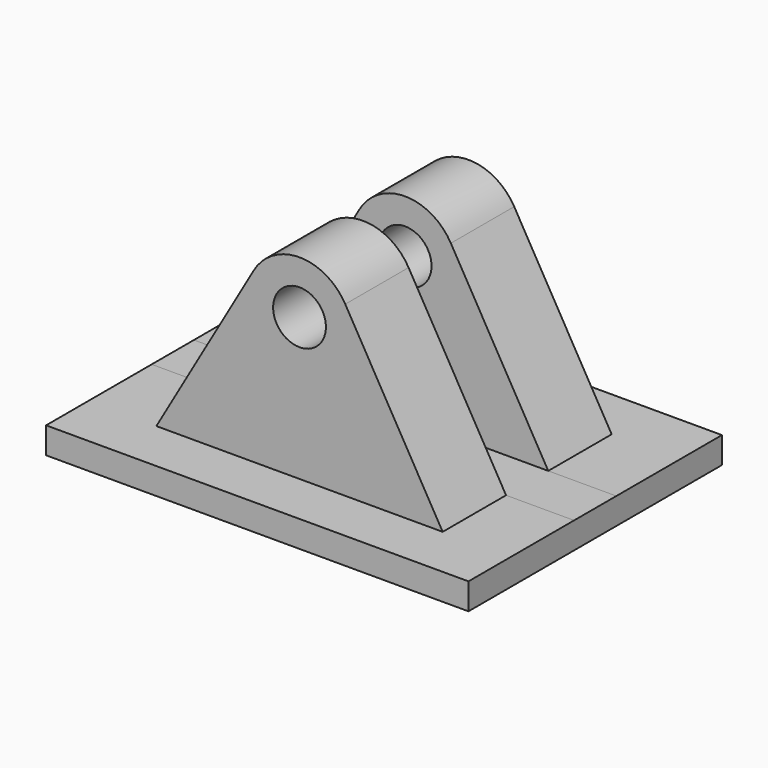
from build123d import *

# Parameters (mm, degrees)
F0_W     = 4
F0_H     = 3
F1_DEPTH = 0.25
F2_R     = 0.25
F3_DEPTH = 1
F4_W     = 0.5
F4_H     = 4.147441
F5_DEPTH = 12.5


with BuildPart() as f1:
    # F0 (on Top) → F1 (new body)
    with BuildSketch(Plane.XY):
        Rectangle(F0_W, F0_H)
    extrude(amount=F1_DEPTH)

    # F2 (on Front) → F3 (join, symmetric)
    with BuildSketch(Plane.XZ):
        with BuildLine():
            Line((-0.433013, 1.848076), (-1.355662, 0.25))
            Line((-1.355662, 0.25), (1.355662, 0.25))
            Line((1.355662, 0.25), (0.433013, 1.848076))
            ThreePointArc((0.433013, 1.848076), (0, 2.098076), (-0.433013, 1.848076))
        make_face()
        with Locations((0, 1.598076)):
            Circle(F2_R, mode=Mode.SUBTRACT)
    extrude(amount=F3_DEPTH, both=True)

    # F4 (on Right) → F5 (cut, symmetric)
    with BuildSketch(Plane.YZ):
        with Locations((0, 2.32372)):
            Rectangle(F4_W, F4_H)
    extrude(amount=F5_DEPTH, both=True, mode=Mode.SUBTRACT)


solid = f1.part
